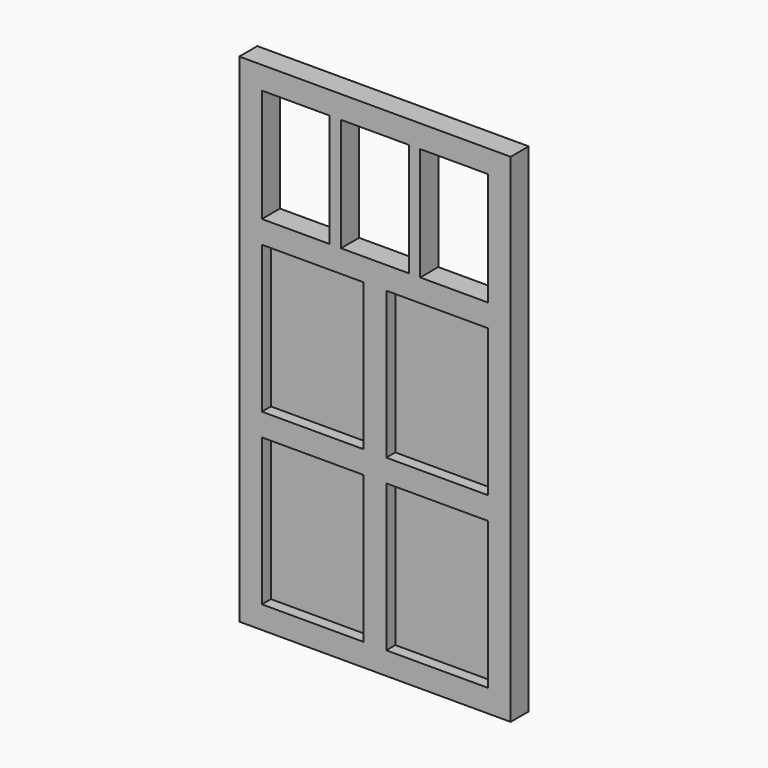
from build123d import *

# Parameters (mm, degrees)
SKETCH_W        = 12
SKETCH_H        = 22
PAD_DEPTH       = 1
SKETCH001_W     = 4.5
SKETCH001_H     = 6.5
POCKET_DEPTH    = 0.5
SKETCH002_W     = 3
SKETCH002_H     = 5
POCKET001_DEPTH = 5


with BuildPart() as part:
    # Sketch → Pad (new body)
    with BuildSketch(Plane.XZ):
        Rectangle(SKETCH_W, SKETCH_H)
    extrude(amount=PAD_DEPTH)

    # Sketch001 (on Face6 of Pad) → Pocket (cut)
    with BuildSketch(Plane.XZ.offset(1)):
        with Locations((-2.75, -6.75)):
            Rectangle(SKETCH001_W, SKETCH001_H)
        with Locations((2.75, -6.75)):
            Rectangle(SKETCH001_W, SKETCH001_H)
        with Locations((-2.75, 0.75)):
            Rectangle(SKETCH001_W, SKETCH001_H)
        with Locations((2.75, 0.75)):
            Rectangle(SKETCH001_W, SKETCH001_H)
    extrude(amount=-POCKET_DEPTH, mode=Mode.SUBTRACT)

    # Sketch002 (on Face5 of Pocket) → Pocket001 (cut)
    with BuildSketch(Plane.XZ.offset(1)):
        with Locations((-3.5, 7.5)):
            Rectangle(SKETCH002_W, SKETCH002_H)
        with Locations((0, 7.5)):
            Rectangle(SKETCH002_W, SKETCH002_H)
        with Locations((3.5, 7.5)):
            Rectangle(SKETCH002_W, SKETCH002_H)
    extrude(amount=-POCKET001_DEPTH, mode=Mode.SUBTRACT)


solid = part.part
